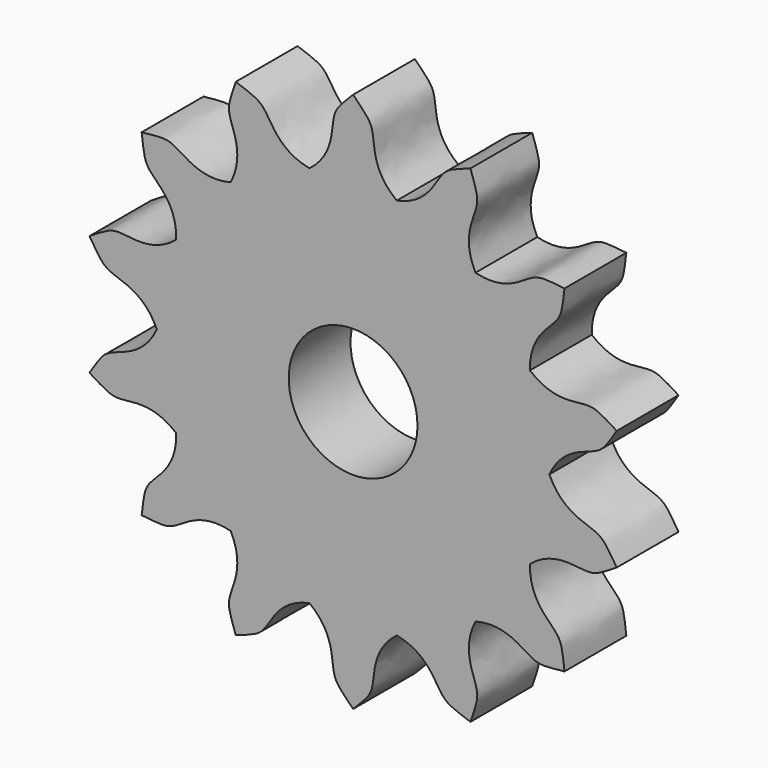
from build123d import *

# Parameters (mm, degrees)
F1_DEPTH = 3
F3_COUNT = 14
F4_R     = 2.5
F5_DEPTH = 3


with BuildPart() as f1:
    # F0 (on Front) → F1 (new body)
    with BuildSketch(Plane.XZ):
        with BuildLine():
            add(Edge.make_bspline(
                [(-2, 7.2284161474), (-0.75, 7.964766161), (-0.9274404252, 9.6336122631), (-0.5, 9.9874921777), (0, 10.5)],
                knots=[0, 0, 0, 0, 0.5866954627, 1, 1, 1, 1], degree=3))
            ThreePointArc((-2, 7.2284161474), (0, -7.5), (2, 7.2284161474))
            add(Edge.make_bspline(
                [(2, 7.2284161474), (0.75, 7.964766161), (0.9274404252, 9.6336122631), (0.5, 9.9874921777), (0, 10.5)],
                knots=[0, 0, 0, 0, 0.5866954627, 1, 1, 1, 1], degree=3))
        make_face()
    extrude(amount=F1_DEPTH)

    # F3: F1 ×14 about axis
    f3_axis = Axis((0, 2.5461101905, 0), (0, 1, 0))


with BuildPart() as f1_1:
    add(f1.part)
    for i in range(1, F3_COUNT):
        add(f1.part.rotate(f3_axis, i * 360 / F3_COUNT))

    # F4 (on face) → F5 (cut, through all)
    with BuildSketch(Plane.XZ.offset(3)):
        Circle(F4_R)
    extrude(amount=-F5_DEPTH, mode=Mode.SUBTRACT)


solid = f1_1.part
